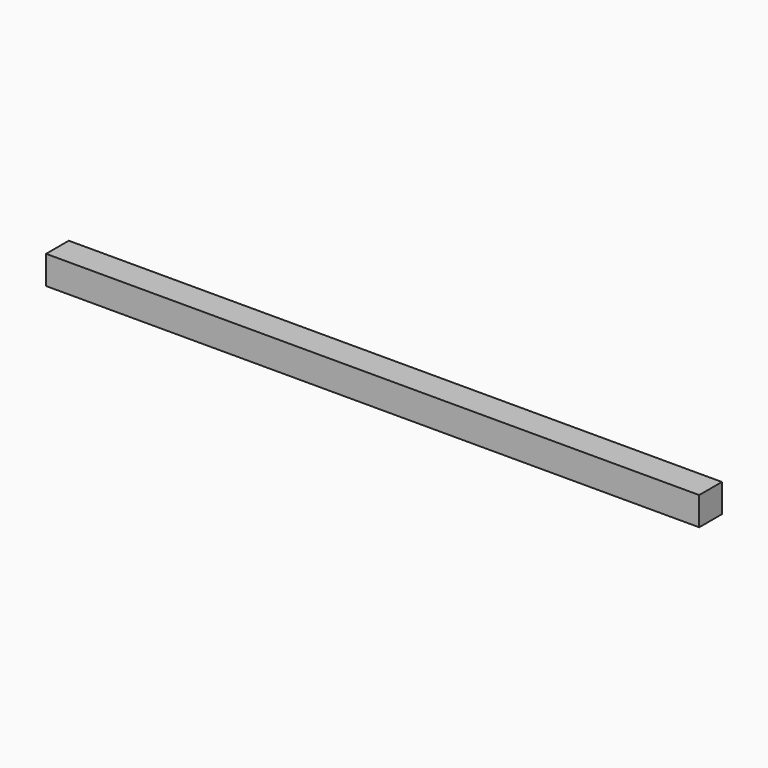
from build123d import *

# Parameters (mm, degrees)
F0_W     = 460
F0_H     = 20
F1_DEPTH = 20
F2_W     = 20
F2_H     = 300
F3_DEPTH = 20


with BuildPart() as f1:
    # F0 (on Top) → F1 (new body)
    with BuildSketch(Plane.XY):
        with Locations((207.763631, 4.992308)):
            Rectangle(F0_W, F0_H)
    extrude(amount=F1_DEPTH)


with BuildPart() as f3:
    # F2 (on Top) → F3 (new body)
    with BuildSketch(Plane.XY):
        with Locations((-106.786743, 76.74925)):
            Rectangle(F2_W, F2_H)
    extrude(amount=F3_DEPTH)


solid = f1.part
